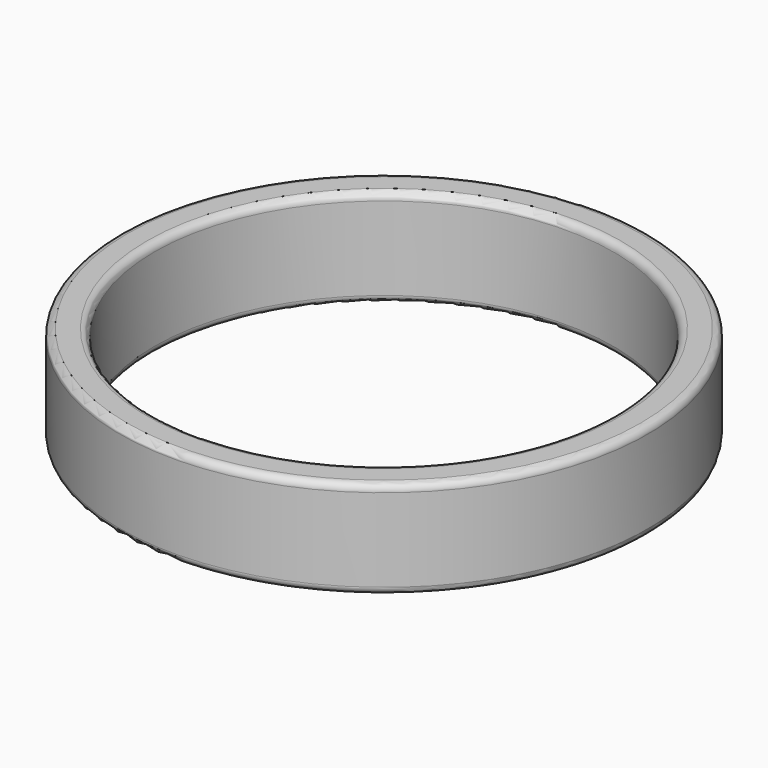
from build123d import *


with BuildPart() as part:
    # Sketch → Revolution (revolve)
    with BuildSketch(Plane.XZ):
        with BuildLine():
            ThreePointArc((-10.790142, 0.3), (-10.702274, 0.087868), (-10.490142, 0))
            Line((-10.490142, 0), (-9.690142, 0))
            ThreePointArc((-9.690142, 0), (-9.47801, 0.087868), (-9.390142, 0.3))
            Line((-9.390142, 0.3), (-9.390142, 3.7))
            ThreePointArc((-9.390142, 3.7), (-9.47801, 3.912132), (-9.690142, 4))
            Line((-9.690142, 4), (-10.490142, 4))
            ThreePointArc((-10.490142, 4), (-10.702274, 3.912132), (-10.790142, 3.7))
            Line((-10.790142, 3.7), (-10.790142, 0.3))
        make_face()
    revolve(axis=Axis((0, 0, 0), (0, 0, 1)))


solid = part.part
